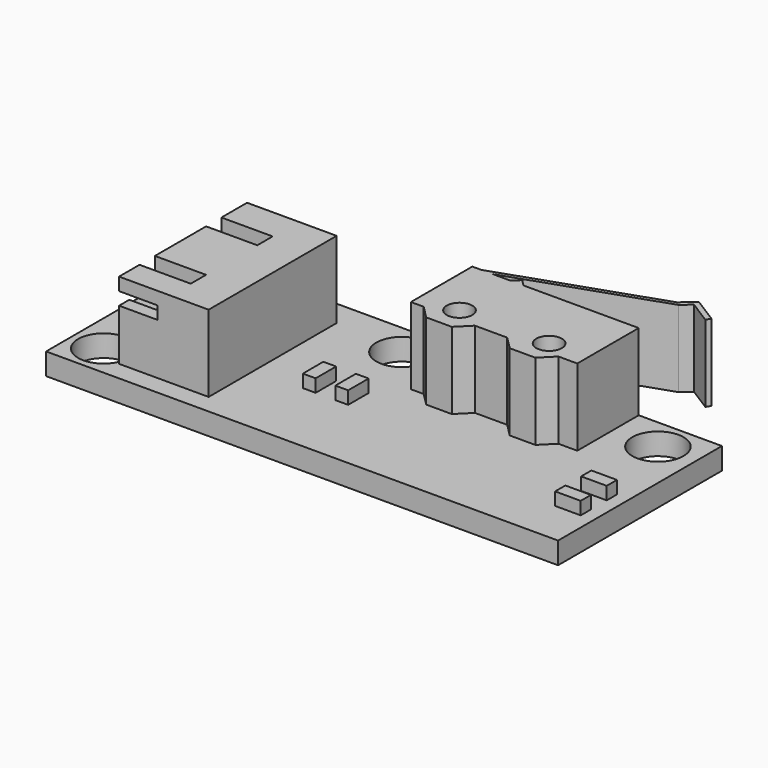
from build123d import *

# Parameters (mm, degrees)
SKETCH_W        = 40
SKETCH_H        = 16
SKETCH_R        = 2
PAD_DEPTH       = 1.7
SKETCH001_W     = 7
SKETCH001_H     = 12.5
PAD001_DEPTH    = 6
SKETCH002_W     = 1
SKETCH002_H     = 2
SKETCH002_W_2   = 2
SKETCH002_H_2   = 1
PAD002_DEPTH    = 1
SKETCH004_R     = 1
POCKET_DEPTH    = 6
SKETCH005_W     = 4
SKETCH005_H     = 1.5
POCKET001_DEPTH = 5
SKETCH006_W     = 10.5
SKETCH006_H     = 4
POCKET002_DEPTH = 6
SKETCH007_W     = 3
SKETCH007_H     = 1
POCKET003_DEPTH = 19.501
SKETCH008_W     = 0.5
SKETCH008_H     = 0.5
PAD003_DEPTH    = 5


with BuildPart() as part:
    # Sketch → Pad (new body)
    with BuildSketch(Plane.XY):
        Rectangle(SKETCH_W, SKETCH_H)
        with Locations((-17.5, 5.5)):
            Circle(SKETCH_R, mode=Mode.SUBTRACT)
        with Locations((-17.5, -5.5)):
            Circle(SKETCH_R, mode=Mode.SUBTRACT)
        with Locations((-3, 5.5)):
            Circle(SKETCH_R, mode=Mode.SUBTRACT)
        with Locations((17, 5.5)):
            Circle(SKETCH_R, mode=Mode.SUBTRACT)
    extrude(amount=PAD_DEPTH)

    # Sketch001 (on Face10 of Pad) → Pad001 (new body)
    with BuildSketch(Plane.XY.offset(1.7)):
        Polygon((13.5, 8), (13.5, 2), (12.024086, 2), (11.024086, 1), (9.024086, 1), (8.024086, 2), (5.5, 2), (4.5, 1), (2.5, 1), (1.5, 2), (0.5, 2), (0.5, 8), (1.2, 8), (13.2, 12.105263), (14.2, 13), (16.2, 11.731371), (15.985743, 11.393594), (14.2, 12.526316), (13.5, 11.9), (2.1, 8), (3.5, 8), (4, 8.5), (4.5, 8), align=None)
        with Locations((-12, -0.25)):
            Rectangle(SKETCH001_W, SKETCH001_H)
    extrude(amount=PAD001_DEPTH)

    # Sketch002 (on Face5 of Pad001) → Pad002 (new body)
    with BuildSketch(Plane.XY.offset(1.7)):
        with Locations((-4.24, -1)):
            Rectangle(SKETCH002_W, SKETCH002_H)
        with Locations((-1.7, -1)):
            Rectangle(SKETCH002_W, SKETCH002_H)
        with Locations((18, -1.5)):
            Rectangle(SKETCH002_W_2, SKETCH002_H_2)
        with Locations((18, -4.04)):
            Rectangle(SKETCH002_W_2, SKETCH002_H_2)
    extrude(amount=PAD002_DEPTH)

    # Sketch004 (on Face47 of Pad002) → Pocket (cut)
    with BuildSketch(Plane.XY.offset(7.7)):
        with Locations((3.5, 3)):
            Circle(SKETCH004_R)
        with Locations((10.5, 3)):
            Circle(SKETCH004_R)
    extrude(amount=-POCKET_DEPTH, mode=Mode.SUBTRACT)

    # Sketch005 (on Face61 of Pocket) → Pocket001 (cut)
    with BuildSketch(Plane.XY.offset(7.7)):
        with Locations((-13.5, 2.75)):
            Rectangle(SKETCH005_W, SKETCH005_H)
        with Locations((-13.5, -3.75)):
            Rectangle(SKETCH005_W, SKETCH005_H)
    extrude(amount=-POCKET001_DEPTH, mode=Mode.SUBTRACT)

    # Sketch006 (on Face43 of Pocket001) → Pocket002 (cut)
    with BuildSketch(Plane(origin=(-15.5, 0, 0), x_dir=(0, -1, 0), z_dir=(-1, 0, 0))):
        with Locations((0.25, 4.7)):
            Rectangle(SKETCH006_W, SKETCH006_H)
    extrude(amount=-POCKET002_DEPTH, mode=Mode.SUBTRACT)

    # Sketch007 (on Face44 of Pocket002) → Pocket003 (cut, through all)
    with BuildSketch(Plane.XZ.offset(6.5)):
        with Locations((-14, 6.2)):
            Rectangle(SKETCH007_W, SKETCH007_H)
    extrude(amount=-POCKET003_DEPTH, mode=Mode.SUBTRACT)

    # Sketch008 (on Face77 of Pocket003) → Pad003 (new body)
    with BuildSketch(Plane(origin=(-9.5, 0, 0), x_dir=(0, -1, 0), z_dir=(-1, 0, 0))):
        with Locations((-3.05, 5.45)):
            Rectangle(SKETCH008_W, SKETCH008_H)
        with Locations((-0.85, 5.45)):
            Rectangle(SKETCH008_W, SKETCH008_H)
        with Locations((1.35, 5.45)):
            Rectangle(SKETCH008_W, SKETCH008_H)
        with Locations((3.55, 5.45)):
            Rectangle(SKETCH008_W, SKETCH008_H)
    extrude(amount=PAD003_DEPTH)


solid = part.part
